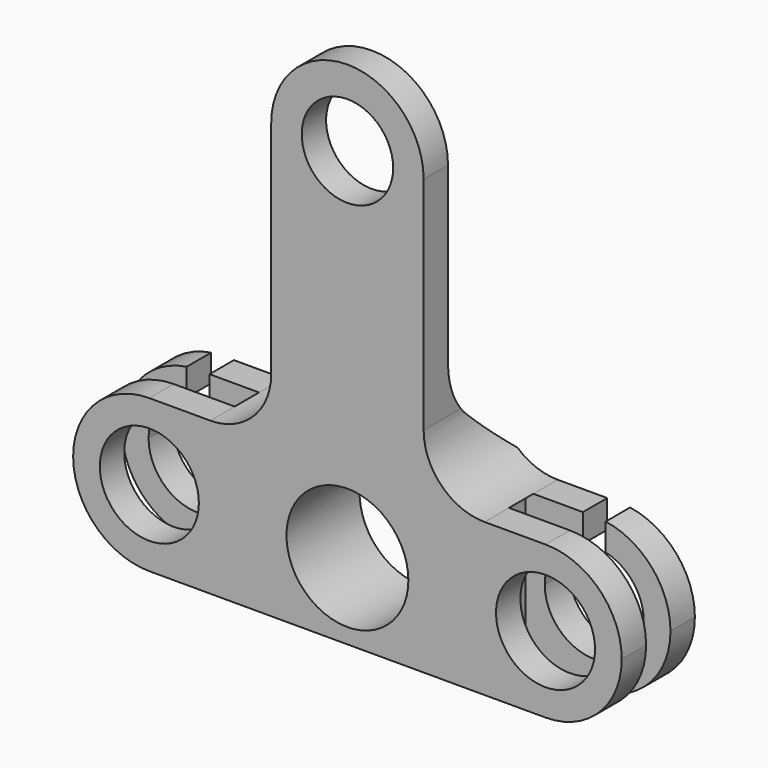
from build123d import *

# Parameters (mm, degrees)
F0_R     = 4
F0_R_2   = 3
F0_R_3   = 3.25
F1_DEPTH = 6
F3_DEPTH = 12.5
F5_DEPTH = 1.25
F6_W     = 9.5
F6_H     = 2
F7_DEPTH = 25
F9_DEPTH = 2


with BuildPart() as f1:
    # F0 (on Front) → F1 (new body)
    with BuildSketch(Plane.XZ):
        with BuildLine():
            ThreePointArc((-13, 5), (-9.4644660941, 3.5355339059), (-8, 0))
            ThreePointArc((-8, 0), (-9.4644660941, -3.5355339059), (-13, -5))
            Line((-13, -5), (13, -5))
            ThreePointArc((13, -5), (8, 0), (13, 5))
            Line((13, 5), (9, 5))
            ThreePointArc((9, 5), (6.1715728753, 6.1715728753), (5, 9))
            Line((5, 9), (5, 23.5))
            ThreePointArc((5, 23.5), (0, 28.5), (-5, 23.5))
            Line((-5, 23.5), (-5, 9))
            ThreePointArc((-5, 9), (-6.1715728753, 6.1715728753), (-9, 5))
            Line((-9, 5), (-13, 5))
        make_face()
        Circle(F0_R, mode=Mode.SUBTRACT)
        with Locations((0, 23.5)):
            Circle(F0_R_2, mode=Mode.SUBTRACT)
        with BuildLine():
            ThreePointArc((-13, -5), (-9.4644660941, -3.5355339059), (-8, 0))
            ThreePointArc((-8, 0), (-9.4644660941, 3.5355339059), (-13, 5))
            ThreePointArc((-13, 5), (-18, 0), (-13, -5))
        make_face()
        with Locations((-13, 0)):
            Circle(F0_R_3, mode=Mode.SUBTRACT)
        with BuildLine():
            ThreePointArc((13, 5), (8, 0), (13, -5))
            ThreePointArc((13, -5), (16.5355339059, -3.5355339059), (18, 0))
            ThreePointArc((18, 0), (16.5355339059, 3.5355339059), (13, 5))
        make_face()
        with Locations((13, 0)):
            Circle(F0_R_3, mode=Mode.SUBTRACT)
    extrude(amount=F1_DEPTH)

    # F2 (on Right) → F3 (cut, symmetric)
    with BuildSketch(Plane.YZ):
        with BuildLine():
            Line((0, 28.5), (-4, 28.5))
            Line((-4, 28.5), (-4, 12.0710678119))
            ThreePointArc((-4, 12.0710678119), (-3.6193976626, 10.15765065), (-2.5355339059, 8.5355339059))
            Line((-2.5355339059, 8.5355339059), (0, 6))
            Line((0, 6), (0, 28.5))
        make_face()
    extrude(amount=F3_DEPTH, both=True, mode=Mode.SUBTRACT)

    # F4 (on Right) → F5 (join, symmetric)
    with BuildSketch(Plane.YZ):
        with BuildLine():
            Line((-2.5355339059, 8.5355339059), (0, 6))
            Line((0, 6), (-4, 19.0834104739))
            Line((-4, 19.0834104739), (-4, 12.0710678119))
            ThreePointArc((-4, 12.0710678119), (-3.6193976626, 10.15765065), (-2.5355339059, 8.5355339059))
        make_face()
    extrude(amount=F5_DEPTH, both=True)

    # F6 (on face) → F7 (cut)
    with BuildSketch(Plane.XY.offset(5)):
        with Locations((13.25, -3)):
            Rectangle(F6_W, F6_H)
        with Locations((-13.25, -3)):
            Rectangle(F6_W, F6_H)
    extrude(amount=-F7_DEPTH, mode=Mode.SUBTRACT)

    # F8 (on face) → F9 (cut)
    with BuildSketch(Plane(origin=(0, 0, 0), x_dir=(-1, 0, 0), z_dir=(0, 1, 0))):
        with BuildLine():
            Line((13.75, 6.816144567), (12.25, 6.816144567))
            Line((12.25, 6.816144567), (12.25, 3.1622776602))
            ThreePointArc((12.25, 3.1622776602), (13, 3.25), (13.75, 3.1622776602))
            Line((13.75, 3.1622776602), (13.75, 6.816144567))
        make_face()
        with BuildLine():
            ThreePointArc((13.75, 3.1622776602), (13, 3.25), (12.25, 3.1622776602))
            Line((12.25, 3.1622776602), (12.25, 1.0694904486))
            Line((12.25, 1.0694904486), (13.75, 1.0694904486))
            Line((13.75, 1.0694904486), (13.75, 3.1622776602))
        make_face()
        with BuildLine():
            Line((12.25, 1.0694904486), (12.25, 3.1622776602))
            ThreePointArc((12.25, 3.1622776602), (10.9844355629, -2.5495097568), (16.25, 0))
            ThreePointArc((16.25, 0), (15.5495097568, 2.0155644371), (13.75, 3.1622776602))
            Line((13.75, 3.1622776602), (13.75, 1.0694904486))
            Line((13.75, 1.0694904486), (12.25, 1.0694904486))
        make_face()
        with BuildLine():
            ThreePointArc((-13.75, 3.1622776602), (-15.0155644371, -2.5495097568), (-9.75, 0))
            ThreePointArc((-9.75, 0), (-10.4504902432, 2.0155644371), (-12.25, 3.1622776602))
            Line((-12.25, 3.1622776602), (-12.25, 1.0694904486))
            Line((-12.25, 1.0694904486), (-13.75, 1.0694904486))
            Line((-13.75, 1.0694904486), (-13.75, 3.1622776602))
        make_face()
        with BuildLine():
            Line((-12.25, 1.0694904486), (-12.25, 3.1622776602))
            ThreePointArc((-12.25, 3.1622776602), (-13, 3.25), (-13.75, 3.1622776602))
            Line((-13.75, 3.1622776602), (-13.75, 1.0694904486))
            Line((-13.75, 1.0694904486), (-12.25, 1.0694904486))
        make_face()
        with BuildLine():
            ThreePointArc((-13.75, 3.1622776602), (-13, 3.25), (-12.25, 3.1622776602))
            Line((-12.25, 3.1622776602), (-12.25, 6.816144567))
            Line((-12.25, 6.816144567), (-13.75, 6.816144567))
            Line((-13.75, 6.816144567), (-13.75, 3.1622776602))
        make_face()
        with BuildLine():
            ThreePointArc((-12.25, 3.1622776602), (-13, 3.25), (-13.75, 3.1622776602))
            Line((-13.75, 3.1622776602), (-13.75, 1.0694904486))
            Line((-13.75, 1.0694904486), (-12.25, 1.0694904486))
            Line((-12.25, 1.0694904486), (-12.25, 3.1622776602))
        make_face()
        with BuildLine():
            Line((-13.75, 1.0694904486), (-13.75, 3.1622776602))
            ThreePointArc((-13.75, 3.1622776602), (-15.0155644371, -2.5495097568), (-9.75, 0))
            ThreePointArc((-9.75, 0), (-10.4504902432, 2.0155644371), (-12.25, 3.1622776602))
            Line((-12.25, 3.1622776602), (-12.25, 1.0694904486))
            Line((-12.25, 1.0694904486), (-13.75, 1.0694904486))
        make_face()
    extrude(amount=-F9_DEPTH, mode=Mode.SUBTRACT)


solid = f1.part
